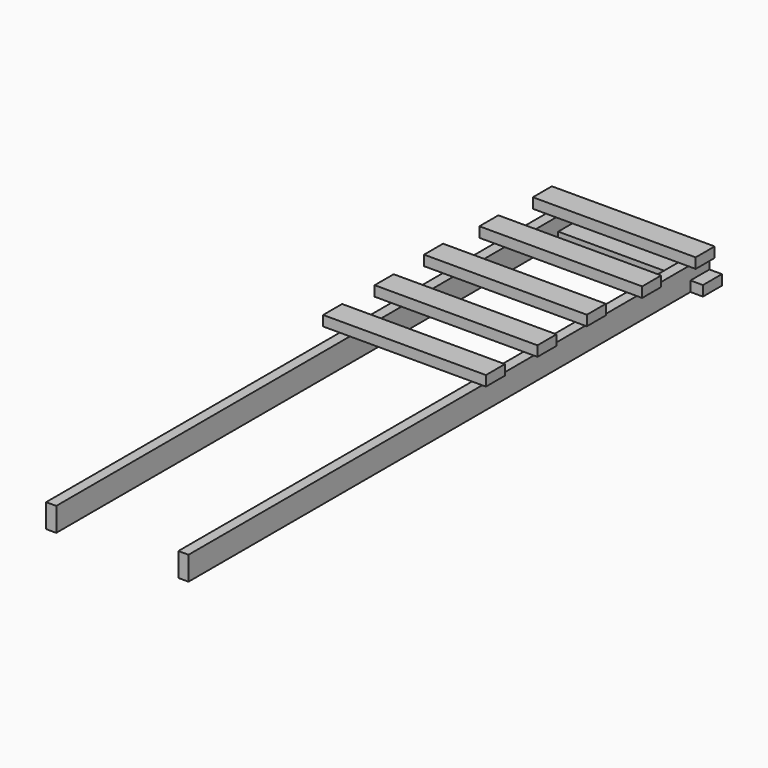
from build123d import *

# Parameters (mm, degrees)
F0_W     = 38.1
F0_H     = 88.9
F1_DEPTH = 2438.4
F2_DEPTH = 2438.4
F3_W     = 609.6
F3_H     = 88.9
F4_DEPTH = 38.1
F6_W     = 609.6
F6_H     = 88.9
F7_DEPTH = 38.1
F8_DEPTH = 38.1


with BuildPart() as f1:
    # F0 (on Front) → F1 (new body)
    with BuildSketch(Plane.XZ):
        with Locations((-476.25, 44.45)):
            Rectangle(F0_W, F0_H)
    extrude(amount=F1_DEPTH)


with BuildPart() as f2:
    # F0 (on Front) → F2 (new body)
    with BuildSketch(Plane.XZ):
        with Locations((19.05, 44.45)):
            Rectangle(F0_W, F0_H)
    extrude(amount=F2_DEPTH)


with BuildPart() as f4:
    # F3 (on Top) → F4 (new body)
    with BuildSketch(Plane.XY):
        with Locations((-220.0298877354, -44.45)):
            Rectangle(F3_W, F3_H)
    extrude(amount=F4_DEPTH)


with BuildPart() as f7:
    # F6 (on offset) → F7 (new body)
    with BuildSketch(Plane.XY.offset(88.9)):
        with Locations((-239.4500577484, -54.1293804169)):
            Rectangle(F6_W, F6_H)
    extrude(amount=F7_DEPTH)


with BuildPart() as f8:
    # F6 (on offset) → F8 (new body)
    with BuildSketch(Plane.XY.offset(88.9)):
        with Locations((-239.4500577484, -54.1293804169)):
            Rectangle(F6_W, F6_H)
    extrude(amount=F8_DEPTH)


with BuildPart() as f8b:
    # F6 (on offset) → F8, piece 2 (new body)
    with BuildSketch(Plane.XY.offset(88.9)):
        with Locations((-246.7503883362, -295.4293804169)):
            Rectangle(F6_W, F6_H)
    extrude(amount=F8_DEPTH)


with BuildPart() as f8c:
    # F6 (on offset) → F8, piece 3 (new body)
    with BuildSketch(Plane.XY.offset(88.9)):
        with Locations((-260.9323598862, -536.7293804169)):
            Rectangle(F6_W, F6_H)
    extrude(amount=F8_DEPTH)


with BuildPart() as f8d:
    # F6 (on offset) → F8, piece 4 (new body)
    with BuildSketch(Plane.XY.offset(88.9)):
        with Locations((-252.7901269913, -778.0293804169)):
            Rectangle(F6_W, F6_H)
    extrude(amount=F8_DEPTH)


with BuildPart() as f8e:
    # F6 (on offset) → F8, piece 5 (new body)
    with BuildSketch(Plane.XY.offset(88.9)):
        with Locations((-252.7901269913, -1019.3293804169)):
            Rectangle(F6_W, F6_H)
    extrude(amount=F8_DEPTH)


solid = Compound([f1.part, f2.part, f4.part, f7.part, f8.part, f8b.part, f8c.part, f8d.part, f8e.part])
